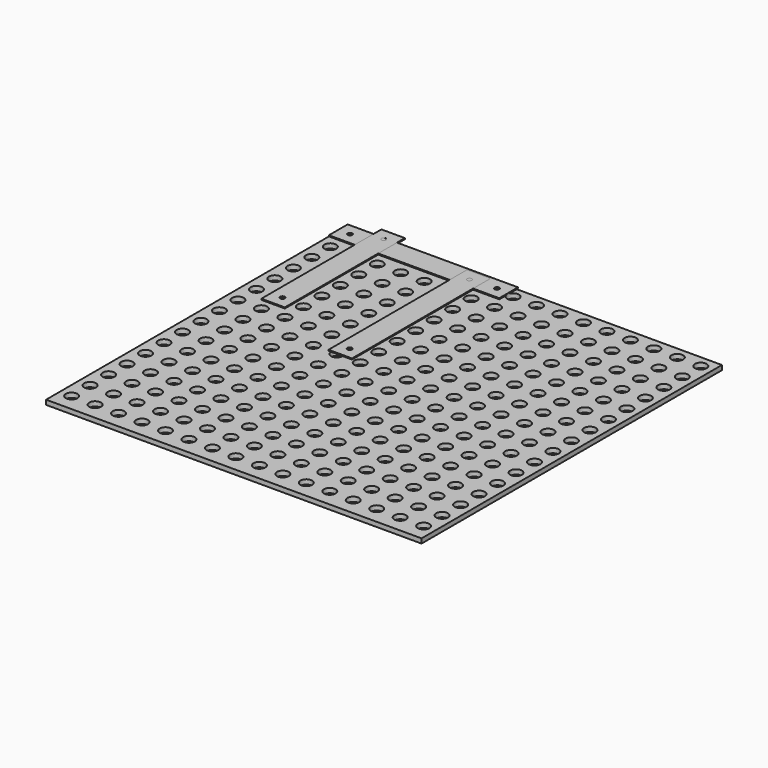
from build123d import *

# Parameters (mm, degrees)
F0_W     = 406.4
F0_H     = 406.4
F0_R     = 6.35
F1_DEPTH = 5
F2_W     = 184.4
F2_H     = 25.4
F2_R     = 2.5
F5_DEPTH = 1.143
F3_W     = 25.4
F3_H     = 187.4
F3_R     = 2.5
F6_DEPTH = 1.143
F4_W     = 25.4
F4_H     = 162.4
F4_R     = 2.5
F7_DEPTH = 1.143


with BuildPart() as f1:
    # F0 (on Top) → F1 (new body)
    with BuildSketch(Plane.XY):
        with Locations((209.55, 196.85)):
            Rectangle(F0_W, F0_H)
        with Locations((19.05, 12.35)):
            Circle(F0_R, mode=Mode.SUBTRACT)
        with Locations((44.45, 12.35)):
            Circle(F0_R, mode=Mode.SUBTRACT)
        with Locations((19.05, 37.35)):
            Circle(F0_R, mode=Mode.SUBTRACT)
        with Locations((44.45, 37.35)):
            Circle(F0_R, mode=Mode.SUBTRACT)
        with Locations((69.85, 12.35)):
            Circle(F0_R, mode=Mode.SUBTRACT)
        with Locations((95.25, 12.35)):
            Circle(F0_R, mode=Mode.SUBTRACT)
        with Locations((69.85, 37.35)):
            Circle(F0_R, mode=Mode.SUBTRACT)
        with Locations((95.25, 37.35)):
            Circle(F0_R, mode=Mode.SUBTRACT)
        with Locations((19.05, 62.35)):
            Circle(F0_R, mode=Mode.SUBTRACT)
        with Locations((44.45, 62.35)):
            Circle(F0_R, mode=Mode.SUBTRACT)
        with Locations((19.05, 87.35)):
            Circle(F0_R, mode=Mode.SUBTRACT)
        with Locations((44.45, 87.35)):
            Circle(F0_R, mode=Mode.SUBTRACT)
        with Locations((69.85, 62.35)):
            Circle(F0_R, mode=Mode.SUBTRACT)
        with Locations((95.25, 62.35)):
            Circle(F0_R, mode=Mode.SUBTRACT)
        with Locations((69.85, 87.35)):
            Circle(F0_R, mode=Mode.SUBTRACT)
        with Locations((95.25, 87.35)):
            Circle(F0_R, mode=Mode.SUBTRACT)
        with Locations((120.65, 12.35)):
            Circle(F0_R, mode=Mode.SUBTRACT)
        with Locations((146.05, 12.35)):
            Circle(F0_R, mode=Mode.SUBTRACT)
        with Locations((120.65, 37.35)):
            Circle(F0_R, mode=Mode.SUBTRACT)
        with Locations((146.05, 37.35)):
            Circle(F0_R, mode=Mode.SUBTRACT)
        with Locations((171.45, 12.35)):
            Circle(F0_R, mode=Mode.SUBTRACT)
        with Locations((196.85, 12.35)):
            Circle(F0_R, mode=Mode.SUBTRACT)
        with Locations((171.45, 37.35)):
            Circle(F0_R, mode=Mode.SUBTRACT)
        with Locations((196.85, 37.35)):
            Circle(F0_R, mode=Mode.SUBTRACT)
        with Locations((120.65, 62.35)):
            Circle(F0_R, mode=Mode.SUBTRACT)
        with Locations((146.05, 62.35)):
            Circle(F0_R, mode=Mode.SUBTRACT)
        with Locations((120.65, 87.35)):
            Circle(F0_R, mode=Mode.SUBTRACT)
        with Locations((146.05, 87.35)):
            Circle(F0_R, mode=Mode.SUBTRACT)
        with Locations((171.45, 62.35)):
            Circle(F0_R, mode=Mode.SUBTRACT)
        with Locations((196.85, 62.35)):
            Circle(F0_R, mode=Mode.SUBTRACT)
        with Locations((171.45, 87.35)):
            Circle(F0_R, mode=Mode.SUBTRACT)
        with Locations((196.85, 87.35)):
            Circle(F0_R, mode=Mode.SUBTRACT)
        with Locations((19.05, 112.35)):
            Circle(F0_R, mode=Mode.SUBTRACT)
        with Locations((44.45, 112.35)):
            Circle(F0_R, mode=Mode.SUBTRACT)
        with Locations((19.05, 137.35)):
            Circle(F0_R, mode=Mode.SUBTRACT)
        with Locations((44.45, 137.35)):
            Circle(F0_R, mode=Mode.SUBTRACT)
        with Locations((69.85, 112.35)):
            Circle(F0_R, mode=Mode.SUBTRACT)
        with Locations((95.25, 112.35)):
            Circle(F0_R, mode=Mode.SUBTRACT)
        with Locations((69.85, 137.35)):
            Circle(F0_R, mode=Mode.SUBTRACT)
        with Locations((95.25, 137.35)):
            Circle(F0_R, mode=Mode.SUBTRACT)
        with Locations((19.05, 162.35)):
            Circle(F0_R, mode=Mode.SUBTRACT)
        with Locations((44.45, 162.35)):
            Circle(F0_R, mode=Mode.SUBTRACT)
        with Locations((19.05, 187.35)):
            Circle(F0_R, mode=Mode.SUBTRACT)
        with Locations((44.45, 187.35)):
            Circle(F0_R, mode=Mode.SUBTRACT)
        with Locations((69.85, 162.35)):
            Circle(F0_R, mode=Mode.SUBTRACT)
        with Locations((95.25, 162.35)):
            Circle(F0_R, mode=Mode.SUBTRACT)
        with Locations((69.85, 187.35)):
            Circle(F0_R, mode=Mode.SUBTRACT)
        with Locations((95.25, 187.35)):
            Circle(F0_R, mode=Mode.SUBTRACT)
        with Locations((120.65, 112.35)):
            Circle(F0_R, mode=Mode.SUBTRACT)
        with Locations((146.05, 112.35)):
            Circle(F0_R, mode=Mode.SUBTRACT)
        with Locations((120.65, 137.35)):
            Circle(F0_R, mode=Mode.SUBTRACT)
        with Locations((146.05, 137.35)):
            Circle(F0_R, mode=Mode.SUBTRACT)
        with Locations((171.45, 112.35)):
            Circle(F0_R, mode=Mode.SUBTRACT)
        with Locations((196.85, 112.35)):
            Circle(F0_R, mode=Mode.SUBTRACT)
        with Locations((171.45, 137.35)):
            Circle(F0_R, mode=Mode.SUBTRACT)
        with Locations((196.85, 137.35)):
            Circle(F0_R, mode=Mode.SUBTRACT)
        with Locations((120.65, 162.35)):
            Circle(F0_R, mode=Mode.SUBTRACT)
        with Locations((146.05, 162.35)):
            Circle(F0_R, mode=Mode.SUBTRACT)
        with Locations((120.65, 187.35)):
            Circle(F0_R, mode=Mode.SUBTRACT)
        with Locations((146.05, 187.35)):
            Circle(F0_R, mode=Mode.SUBTRACT)
        with Locations((171.45, 162.35)):
            Circle(F0_R, mode=Mode.SUBTRACT)
        with Locations((196.85, 162.35)):
            Circle(F0_R, mode=Mode.SUBTRACT)
        with Locations((171.45, 187.35)):
            Circle(F0_R, mode=Mode.SUBTRACT)
        with Locations((196.85, 187.35)):
            Circle(F0_R, mode=Mode.SUBTRACT)
        with Locations((222.25, 12.35)):
            Circle(F0_R, mode=Mode.SUBTRACT)
        with Locations((247.65, 12.35)):
            Circle(F0_R, mode=Mode.SUBTRACT)
        with Locations((222.25, 37.35)):
            Circle(F0_R, mode=Mode.SUBTRACT)
        with Locations((247.65, 37.35)):
            Circle(F0_R, mode=Mode.SUBTRACT)
        with Locations((273.05, 12.35)):
            Circle(F0_R, mode=Mode.SUBTRACT)
        with Locations((298.45, 12.35)):
            Circle(F0_R, mode=Mode.SUBTRACT)
        with Locations((273.05, 37.35)):
            Circle(F0_R, mode=Mode.SUBTRACT)
        with Locations((298.45, 37.35)):
            Circle(F0_R, mode=Mode.SUBTRACT)
        with Locations((222.25, 62.35)):
            Circle(F0_R, mode=Mode.SUBTRACT)
        with Locations((247.65, 62.35)):
            Circle(F0_R, mode=Mode.SUBTRACT)
        with Locations((222.25, 87.35)):
            Circle(F0_R, mode=Mode.SUBTRACT)
        with Locations((247.65, 87.35)):
            Circle(F0_R, mode=Mode.SUBTRACT)
        with Locations((273.05, 62.35)):
            Circle(F0_R, mode=Mode.SUBTRACT)
        with Locations((298.45, 62.35)):
            Circle(F0_R, mode=Mode.SUBTRACT)
        with Locations((273.05, 87.35)):
            Circle(F0_R, mode=Mode.SUBTRACT)
        with Locations((298.45, 87.35)):
            Circle(F0_R, mode=Mode.SUBTRACT)
        with Locations((323.85, 12.35)):
            Circle(F0_R, mode=Mode.SUBTRACT)
        with Locations((349.25, 12.35)):
            Circle(F0_R, mode=Mode.SUBTRACT)
        with Locations((323.85, 37.35)):
            Circle(F0_R, mode=Mode.SUBTRACT)
        with Locations((349.25, 37.35)):
            Circle(F0_R, mode=Mode.SUBTRACT)
        with Locations((374.65, 12.35)):
            Circle(F0_R, mode=Mode.SUBTRACT)
        with Locations((400.05, 12.35)):
            Circle(F0_R, mode=Mode.SUBTRACT)
        with Locations((374.65, 37.35)):
            Circle(F0_R, mode=Mode.SUBTRACT)
        with Locations((400.05, 37.35)):
            Circle(F0_R, mode=Mode.SUBTRACT)
        with Locations((323.85, 62.35)):
            Circle(F0_R, mode=Mode.SUBTRACT)
        with Locations((349.25, 62.35)):
            Circle(F0_R, mode=Mode.SUBTRACT)
        with Locations((323.85, 87.35)):
            Circle(F0_R, mode=Mode.SUBTRACT)
        with Locations((349.25, 87.35)):
            Circle(F0_R, mode=Mode.SUBTRACT)
        with Locations((374.65, 62.35)):
            Circle(F0_R, mode=Mode.SUBTRACT)
        with Locations((400.05, 62.35)):
            Circle(F0_R, mode=Mode.SUBTRACT)
        with Locations((374.65, 87.35)):
            Circle(F0_R, mode=Mode.SUBTRACT)
        with Locations((400.05, 87.35)):
            Circle(F0_R, mode=Mode.SUBTRACT)
        with Locations((222.25, 112.35)):
            Circle(F0_R, mode=Mode.SUBTRACT)
        with Locations((247.65, 112.35)):
            Circle(F0_R, mode=Mode.SUBTRACT)
        with Locations((222.25, 137.35)):
            Circle(F0_R, mode=Mode.SUBTRACT)
        with Locations((247.65, 137.35)):
            Circle(F0_R, mode=Mode.SUBTRACT)
        with Locations((273.05, 112.35)):
            Circle(F0_R, mode=Mode.SUBTRACT)
        with Locations((298.45, 112.35)):
            Circle(F0_R, mode=Mode.SUBTRACT)
        with Locations((273.05, 137.35)):
            Circle(F0_R, mode=Mode.SUBTRACT)
        with Locations((298.45, 137.35)):
            Circle(F0_R, mode=Mode.SUBTRACT)
        with Locations((222.25, 162.35)):
            Circle(F0_R, mode=Mode.SUBTRACT)
        with Locations((247.65, 162.35)):
            Circle(F0_R, mode=Mode.SUBTRACT)
        with Locations((222.25, 187.35)):
            Circle(F0_R, mode=Mode.SUBTRACT)
        with Locations((247.65, 187.35)):
            Circle(F0_R, mode=Mode.SUBTRACT)
        with Locations((273.05, 162.35)):
            Circle(F0_R, mode=Mode.SUBTRACT)
        with Locations((298.45, 162.35)):
            Circle(F0_R, mode=Mode.SUBTRACT)
        with Locations((273.05, 187.35)):
            Circle(F0_R, mode=Mode.SUBTRACT)
        with Locations((298.45, 187.35)):
            Circle(F0_R, mode=Mode.SUBTRACT)
        with Locations((323.85, 112.35)):
            Circle(F0_R, mode=Mode.SUBTRACT)
        with Locations((349.25, 112.35)):
            Circle(F0_R, mode=Mode.SUBTRACT)
        with Locations((323.85, 137.35)):
            Circle(F0_R, mode=Mode.SUBTRACT)
        with Locations((349.25, 137.35)):
            Circle(F0_R, mode=Mode.SUBTRACT)
        with Locations((374.65, 112.35)):
            Circle(F0_R, mode=Mode.SUBTRACT)
        with Locations((400.05, 112.35)):
            Circle(F0_R, mode=Mode.SUBTRACT)
        with Locations((374.65, 137.35)):
            Circle(F0_R, mode=Mode.SUBTRACT)
        with Locations((400.05, 137.35)):
            Circle(F0_R, mode=Mode.SUBTRACT)
        with Locations((323.85, 162.35)):
            Circle(F0_R, mode=Mode.SUBTRACT)
        with Locations((349.25, 162.35)):
            Circle(F0_R, mode=Mode.SUBTRACT)
        with Locations((323.85, 187.35)):
            Circle(F0_R, mode=Mode.SUBTRACT)
        with Locations((349.25, 187.35)):
            Circle(F0_R, mode=Mode.SUBTRACT)
        with Locations((374.65, 162.35)):
            Circle(F0_R, mode=Mode.SUBTRACT)
        with Locations((400.05, 162.35)):
            Circle(F0_R, mode=Mode.SUBTRACT)
        with Locations((374.65, 187.35)):
            Circle(F0_R, mode=Mode.SUBTRACT)
        with Locations((400.05, 187.35)):
            Circle(F0_R, mode=Mode.SUBTRACT)
        with Locations((19.05, 212.35)):
            Circle(F0_R, mode=Mode.SUBTRACT)
        with Locations((44.45, 212.35)):
            Circle(F0_R, mode=Mode.SUBTRACT)
        with Locations((19.05, 237.35)):
            Circle(F0_R, mode=Mode.SUBTRACT)
        with Locations((44.45, 237.35)):
            Circle(F0_R, mode=Mode.SUBTRACT)
        with Locations((69.85, 212.35)):
            Circle(F0_R, mode=Mode.SUBTRACT)
        with Locations((95.25, 212.35)):
            Circle(F0_R, mode=Mode.SUBTRACT)
        with Locations((69.85, 237.35)):
            Circle(F0_R, mode=Mode.SUBTRACT)
        with Locations((95.25, 237.35)):
            Circle(F0_R, mode=Mode.SUBTRACT)
        with Locations((19.05, 262.35)):
            Circle(F0_R, mode=Mode.SUBTRACT)
        with Locations((44.45, 262.35)):
            Circle(F0_R, mode=Mode.SUBTRACT)
        with Locations((19.05, 287.35)):
            Circle(F0_R, mode=Mode.SUBTRACT)
        with Locations((44.45, 287.35)):
            Circle(F0_R, mode=Mode.SUBTRACT)
        with Locations((69.85, 262.35)):
            Circle(F0_R, mode=Mode.SUBTRACT)
        with Locations((95.25, 262.35)):
            Circle(F0_R, mode=Mode.SUBTRACT)
        with Locations((69.85, 287.35)):
            Circle(F0_R, mode=Mode.SUBTRACT)
        with Locations((95.25, 287.35)):
            Circle(F0_R, mode=Mode.SUBTRACT)
        with Locations((120.65, 212.35)):
            Circle(F0_R, mode=Mode.SUBTRACT)
        with Locations((146.05, 212.35)):
            Circle(F0_R, mode=Mode.SUBTRACT)
        with Locations((120.65, 237.35)):
            Circle(F0_R, mode=Mode.SUBTRACT)
        with Locations((146.05, 237.35)):
            Circle(F0_R, mode=Mode.SUBTRACT)
        with Locations((171.45, 212.35)):
            Circle(F0_R, mode=Mode.SUBTRACT)
        with Locations((196.85, 212.35)):
            Circle(F0_R, mode=Mode.SUBTRACT)
        with Locations((171.45, 237.35)):
            Circle(F0_R, mode=Mode.SUBTRACT)
        with Locations((196.85, 237.35)):
            Circle(F0_R, mode=Mode.SUBTRACT)
        with Locations((120.65, 262.35)):
            Circle(F0_R, mode=Mode.SUBTRACT)
        with Locations((146.05, 262.35)):
            Circle(F0_R, mode=Mode.SUBTRACT)
        with Locations((120.65, 287.35)):
            Circle(F0_R, mode=Mode.SUBTRACT)
        with Locations((146.05, 287.35)):
            Circle(F0_R, mode=Mode.SUBTRACT)
        with Locations((171.45, 262.35)):
            Circle(F0_R, mode=Mode.SUBTRACT)
        with Locations((196.85, 262.35)):
            Circle(F0_R, mode=Mode.SUBTRACT)
        with Locations((171.45, 287.35)):
            Circle(F0_R, mode=Mode.SUBTRACT)
        with Locations((196.85, 287.35)):
            Circle(F0_R, mode=Mode.SUBTRACT)
        with Locations((19.05, 312.35)):
            Circle(F0_R, mode=Mode.SUBTRACT)
        with Locations((44.45, 312.35)):
            Circle(F0_R, mode=Mode.SUBTRACT)
        with Locations((19.05, 337.35)):
            Circle(F0_R, mode=Mode.SUBTRACT)
        with Locations((44.45, 337.35)):
            Circle(F0_R, mode=Mode.SUBTRACT)
        with Locations((69.85, 312.35)):
            Circle(F0_R, mode=Mode.SUBTRACT)
        with Locations((95.25, 312.35)):
            Circle(F0_R, mode=Mode.SUBTRACT)
        with Locations((69.85, 337.35)):
            Circle(F0_R, mode=Mode.SUBTRACT)
        with Locations((95.25, 337.35)):
            Circle(F0_R, mode=Mode.SUBTRACT)
        with Locations((19.05, 362.35)):
            Circle(F0_R, mode=Mode.SUBTRACT)
        with Locations((44.45, 362.35)):
            Circle(F0_R, mode=Mode.SUBTRACT)
        with Locations((19.05, 387.35)):
            Circle(F0_R, mode=Mode.SUBTRACT)
        with Locations((44.45, 387.35)):
            Circle(F0_R, mode=Mode.SUBTRACT)
        with Locations((69.85, 362.35)):
            Circle(F0_R, mode=Mode.SUBTRACT)
        with Locations((95.25, 362.35)):
            Circle(F0_R, mode=Mode.SUBTRACT)
        with Locations((69.85, 387.35)):
            Circle(F0_R, mode=Mode.SUBTRACT)
        with Locations((95.25, 387.35)):
            Circle(F0_R, mode=Mode.SUBTRACT)
        with Locations((120.65, 312.35)):
            Circle(F0_R, mode=Mode.SUBTRACT)
        with Locations((146.05, 312.35)):
            Circle(F0_R, mode=Mode.SUBTRACT)
        with Locations((120.65, 337.35)):
            Circle(F0_R, mode=Mode.SUBTRACT)
        with Locations((146.05, 337.35)):
            Circle(F0_R, mode=Mode.SUBTRACT)
        with Locations((171.45, 312.35)):
            Circle(F0_R, mode=Mode.SUBTRACT)
        with Locations((196.85, 312.35)):
            Circle(F0_R, mode=Mode.SUBTRACT)
        with Locations((171.45, 337.35)):
            Circle(F0_R, mode=Mode.SUBTRACT)
        with Locations((196.85, 337.35)):
            Circle(F0_R, mode=Mode.SUBTRACT)
        with Locations((120.65, 362.35)):
            Circle(F0_R, mode=Mode.SUBTRACT)
        with Locations((146.05, 362.35)):
            Circle(F0_R, mode=Mode.SUBTRACT)
        with Locations((120.65, 387.35)):
            Circle(F0_R, mode=Mode.SUBTRACT)
        with Locations((146.05, 387.35)):
            Circle(F0_R, mode=Mode.SUBTRACT)
        with Locations((171.45, 362.35)):
            Circle(F0_R, mode=Mode.SUBTRACT)
        with Locations((196.85, 362.35)):
            Circle(F0_R, mode=Mode.SUBTRACT)
        with Locations((171.45, 387.35)):
            Circle(F0_R, mode=Mode.SUBTRACT)
        with Locations((196.85, 387.35)):
            Circle(F0_R, mode=Mode.SUBTRACT)
        with Locations((222.25, 212.35)):
            Circle(F0_R, mode=Mode.SUBTRACT)
        with Locations((247.65, 212.35)):
            Circle(F0_R, mode=Mode.SUBTRACT)
        with Locations((222.25, 237.35)):
            Circle(F0_R, mode=Mode.SUBTRACT)
        with Locations((247.65, 237.35)):
            Circle(F0_R, mode=Mode.SUBTRACT)
        with Locations((273.05, 212.35)):
            Circle(F0_R, mode=Mode.SUBTRACT)
        with Locations((298.45, 212.35)):
            Circle(F0_R, mode=Mode.SUBTRACT)
        with Locations((273.05, 237.35)):
            Circle(F0_R, mode=Mode.SUBTRACT)
        with Locations((298.45, 237.35)):
            Circle(F0_R, mode=Mode.SUBTRACT)
        with Locations((222.25, 262.35)):
            Circle(F0_R, mode=Mode.SUBTRACT)
        with Locations((247.65, 262.35)):
            Circle(F0_R, mode=Mode.SUBTRACT)
        with Locations((222.25, 287.35)):
            Circle(F0_R, mode=Mode.SUBTRACT)
        with Locations((247.65, 287.35)):
            Circle(F0_R, mode=Mode.SUBTRACT)
        with Locations((273.05, 262.35)):
            Circle(F0_R, mode=Mode.SUBTRACT)
        with Locations((298.45, 262.35)):
            Circle(F0_R, mode=Mode.SUBTRACT)
        with Locations((273.05, 287.35)):
            Circle(F0_R, mode=Mode.SUBTRACT)
        with Locations((298.45, 287.35)):
            Circle(F0_R, mode=Mode.SUBTRACT)
        with Locations((323.85, 212.35)):
            Circle(F0_R, mode=Mode.SUBTRACT)
        with Locations((349.25, 212.35)):
            Circle(F0_R, mode=Mode.SUBTRACT)
        with Locations((323.85, 237.35)):
            Circle(F0_R, mode=Mode.SUBTRACT)
        with Locations((349.25, 237.35)):
            Circle(F0_R, mode=Mode.SUBTRACT)
        with Locations((374.65, 212.35)):
            Circle(F0_R, mode=Mode.SUBTRACT)
        with Locations((400.05, 212.35)):
            Circle(F0_R, mode=Mode.SUBTRACT)
        with Locations((374.65, 237.35)):
            Circle(F0_R, mode=Mode.SUBTRACT)
        with Locations((400.05, 237.35)):
            Circle(F0_R, mode=Mode.SUBTRACT)
        with Locations((323.85, 262.35)):
            Circle(F0_R, mode=Mode.SUBTRACT)
        with Locations((349.25, 262.35)):
            Circle(F0_R, mode=Mode.SUBTRACT)
        with Locations((323.85, 287.35)):
            Circle(F0_R, mode=Mode.SUBTRACT)
        with Locations((349.25, 287.35)):
            Circle(F0_R, mode=Mode.SUBTRACT)
        with Locations((374.65, 262.35)):
            Circle(F0_R, mode=Mode.SUBTRACT)
        with Locations((400.05, 262.35)):
            Circle(F0_R, mode=Mode.SUBTRACT)
        with Locations((374.65, 287.35)):
            Circle(F0_R, mode=Mode.SUBTRACT)
        with Locations((400.05, 287.35)):
            Circle(F0_R, mode=Mode.SUBTRACT)
        with Locations((222.25, 312.35)):
            Circle(F0_R, mode=Mode.SUBTRACT)
        with Locations((247.65, 312.35)):
            Circle(F0_R, mode=Mode.SUBTRACT)
        with Locations((222.25, 337.35)):
            Circle(F0_R, mode=Mode.SUBTRACT)
        with Locations((247.65, 337.35)):
            Circle(F0_R, mode=Mode.SUBTRACT)
        with Locations((273.05, 312.35)):
            Circle(F0_R, mode=Mode.SUBTRACT)
        with Locations((298.45, 312.35)):
            Circle(F0_R, mode=Mode.SUBTRACT)
        with Locations((273.05, 337.35)):
            Circle(F0_R, mode=Mode.SUBTRACT)
        with Locations((298.45, 337.35)):
            Circle(F0_R, mode=Mode.SUBTRACT)
        with Locations((222.25, 362.35)):
            Circle(F0_R, mode=Mode.SUBTRACT)
        with Locations((247.65, 362.35)):
            Circle(F0_R, mode=Mode.SUBTRACT)
        with Locations((222.25, 387.35)):
            Circle(F0_R, mode=Mode.SUBTRACT)
        with Locations((247.65, 387.35)):
            Circle(F0_R, mode=Mode.SUBTRACT)
        with Locations((273.05, 362.35)):
            Circle(F0_R, mode=Mode.SUBTRACT)
        with Locations((298.45, 362.35)):
            Circle(F0_R, mode=Mode.SUBTRACT)
        with Locations((273.05, 387.35)):
            Circle(F0_R, mode=Mode.SUBTRACT)
        with Locations((298.45, 387.35)):
            Circle(F0_R, mode=Mode.SUBTRACT)
        with Locations((323.85, 312.35)):
            Circle(F0_R, mode=Mode.SUBTRACT)
        with Locations((349.25, 312.35)):
            Circle(F0_R, mode=Mode.SUBTRACT)
        with Locations((323.85, 337.35)):
            Circle(F0_R, mode=Mode.SUBTRACT)
        with Locations((349.25, 337.35)):
            Circle(F0_R, mode=Mode.SUBTRACT)
        with Locations((374.65, 312.35)):
            Circle(F0_R, mode=Mode.SUBTRACT)
        with Locations((400.05, 312.35)):
            Circle(F0_R, mode=Mode.SUBTRACT)
        with Locations((374.65, 337.35)):
            Circle(F0_R, mode=Mode.SUBTRACT)
        with Locations((400.05, 337.35)):
            Circle(F0_R, mode=Mode.SUBTRACT)
        with Locations((323.85, 362.35)):
            Circle(F0_R, mode=Mode.SUBTRACT)
        with Locations((349.25, 362.35)):
            Circle(F0_R, mode=Mode.SUBTRACT)
        with Locations((323.85, 387.35)):
            Circle(F0_R, mode=Mode.SUBTRACT)
        with Locations((349.25, 387.35)):
            Circle(F0_R, mode=Mode.SUBTRACT)
        with Locations((374.65, 362.35)):
            Circle(F0_R, mode=Mode.SUBTRACT)
        with Locations((400.05, 362.35)):
            Circle(F0_R, mode=Mode.SUBTRACT)
        with Locations((374.65, 387.35)):
            Circle(F0_R, mode=Mode.SUBTRACT)
        with Locations((400.05, 387.35)):
            Circle(F0_R, mode=Mode.SUBTRACT)
    extrude(amount=F1_DEPTH)


with BuildPart() as f5:
    # F2 (on face) → F5 (new body)
    with BuildSketch(Plane.XY.offset(5)):
        with Locations((98.55, 388.991766)):
            Rectangle(F2_W, F2_H)
        with Locations((19.05, 388.991766)):
            Circle(F2_R, mode=Mode.SUBTRACT)
        with Locations((178.05, 388.991766)):
            Circle(F2_R, mode=Mode.SUBTRACT)
    extrude(amount=F5_DEPTH)


with BuildPart() as f6:
    # F3 (on face) → F6 (new body)
    with BuildSketch(Plane.XY.offset(5)):
        with Locations((149.749361, 306.139105)):
            Rectangle(F3_W, F3_H)
        with Locations((149.749361, 225.139105)):
            Circle(F3_R, mode=Mode.SUBTRACT)
        with Locations((149.749361, 387.139105)):
            Circle(F3_R, mode=Mode.SUBTRACT)
    extrude(amount=F6_DEPTH)


with BuildPart() as f7:
    # F4 (on face) → F7 (new body)
    with BuildSketch(Plane.XY.offset(5)):
        with Locations((47.023933, 331.144281)):
            Rectangle(F4_W, F4_H)
        with Locations((47.023933, 262.644281)):
            Circle(F4_R, mode=Mode.SUBTRACT)
        with Locations((47.023933, 399.644281)):
            Circle(F4_R, mode=Mode.SUBTRACT)
    extrude(amount=F7_DEPTH)


solid = Compound([f1.part, f5.part, f6.part, f7.part])
